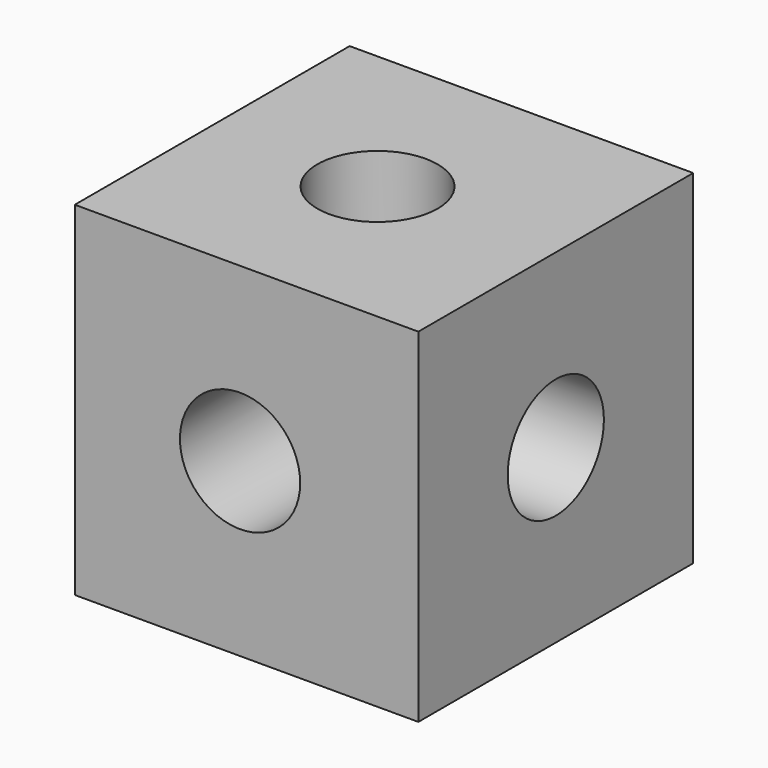
from build123d import *

# Parameters (mm, degrees)
F0_W      = 100
F0_H      = 100
F1_DEPTH  = 50
F2_R      = 17.5
F3_DEPTH  = 50
F4_R      = 17.5
F5_DEPTH  = 50
F6_R      = 17.5
F7_DEPTH  = 50
F8_R      = 17.5
F9_DEPTH  = 50
F10_R     = 17.5
F11_DEPTH = 50


with BuildPart() as f1:
    # F0 (on Front) → F1 (new body, symmetric)
    with BuildSketch(Plane.XZ):
        with Locations((1.8918946969, 0)):
            Rectangle(F0_W, F0_H)
    extrude(amount=F1_DEPTH, both=True)

    # F2 (on Front) → F3 (cut, symmetric)
    with BuildSketch(Plane.XZ):
        Circle(F2_R)
    extrude(amount=F3_DEPTH, both=True, mode=Mode.SUBTRACT)

    # F4 (on face) → F5 (cut, symmetric)
    with BuildSketch(Plane.YZ.offset(51.8918946969)):
        Circle(F4_R)
    extrude(amount=F5_DEPTH, both=True, mode=Mode.SUBTRACT)

    # F6 (on face) → F7 (cut, symmetric)
    with BuildSketch(Plane(origin=(-48.1081053031, 0, 0), x_dir=(0, -1, 0), z_dir=(-1, 0, 0))):
        Circle(F6_R)
    extrude(amount=F7_DEPTH, both=True, mode=Mode.SUBTRACT)

    # F8 (on face) → F9 (cut, symmetric)
    with BuildSketch(Plane.XY.offset(50)):
        Circle(F8_R)
    extrude(amount=F9_DEPTH, both=True, mode=Mode.SUBTRACT)

    # F10 (on face) → F11 (cut, symmetric)
    with BuildSketch(Plane(origin=(0, 0, -50), x_dir=(1, 0, 0), z_dir=(0, 0, -1))):
        Circle(F10_R)
    extrude(amount=F11_DEPTH, both=True, mode=Mode.SUBTRACT)


solid = f1.part
